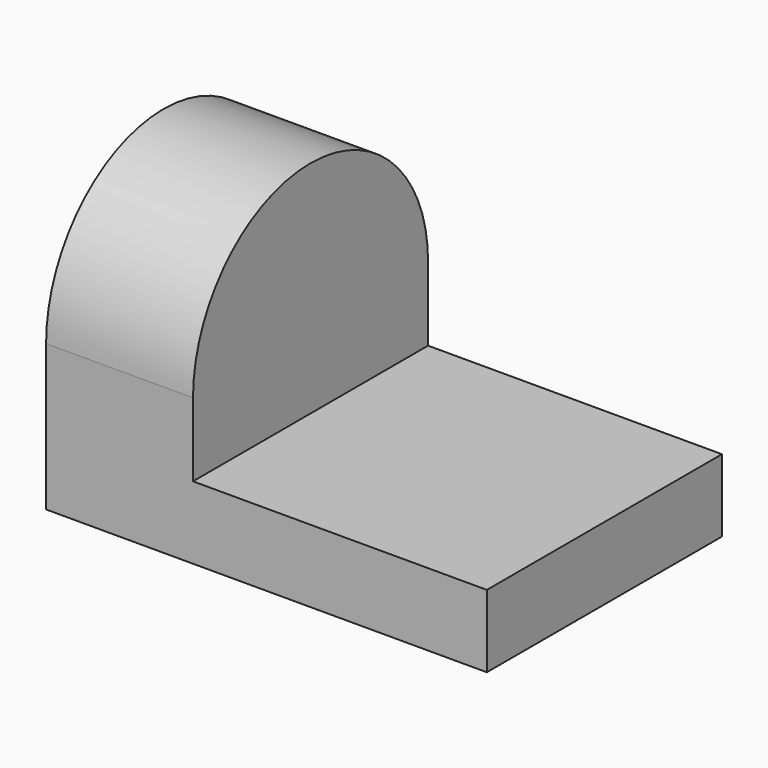
from build123d import *

# Parameters (mm, degrees)
F0_R     = 12.7
F1_DEPTH = 12.7
F2_W     = 25.4
F2_H     = 12.621605
F3_DEPTH = 38.1
F4_W     = 25.4
F4_H     = 6.35
F5_DEPTH = 51.562


with BuildPart() as f1:
    # F0 (on Right) → F1 (new body)
    with BuildSketch(Plane.YZ):
        with Locations((0, 12.621605)):
            Circle(F0_R)
    extrude(amount=F1_DEPTH)

    # F2 (on Right) → F3 (join)
    with BuildSketch(Plane.YZ):
        with Locations((0, 6.310802)):
            Rectangle(F2_W, F2_H)
    extrude(amount=F3_DEPTH)

    # F4 (on Front) → F5 (cut, symmetric)
    with BuildSketch(Plane.XZ):
        with Locations((25.4, 9.446605)):
            Rectangle(F4_W, F4_H)
    extrude(amount=F5_DEPTH, both=True, mode=Mode.SUBTRACT)


solid = f1.part
